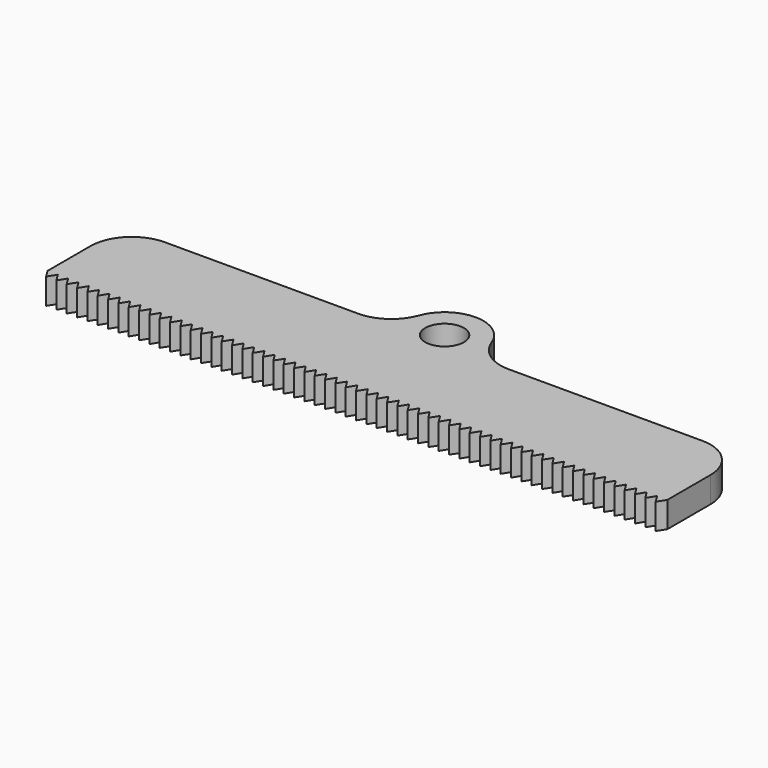
from build123d import *

# Parameters (mm, degrees)
F0_R     = 2.3749
F1_DEPTH = 3.175
F3_DEPTH = 25.4


with BuildPart() as f1:
    # F0 (on Top) → F1 (new body)
    with BuildSketch(Plane.XY):
        with BuildLine():
            Line((-38.1, -9.525), (38.1, -9.525))
            Line((38.1, -9.525), (38.1, -1.905))
            ThreePointArc((38.1, -1.905), (36.612102, 1.687102), (33.02, 3.175))
            Line((33.02, 3.175), (9.243306, 3.175))
            ThreePointArc((9.243306, 3.175), (6.333003, 4.091283), (4.472567, 6.509591))
            ThreePointArc((4.472567, 6.509591), (0, 9.635769), (-4.472567, 6.509591))
            ThreePointArc((-4.472567, 6.509591), (-6.333003, 4.091283), (-9.243306, 3.175))
            Line((-9.243306, 3.175), (-33.02, 3.175))
            ThreePointArc((-33.02, 3.175), (-36.612102, 1.687102), (-38.1, -1.905))
            Line((-38.1, -1.905), (-38.1, -9.525))
        make_face()
        with Locations((0, 4.873269)):
            Circle(F0_R, mode=Mode.SUBTRACT)
    extrude(amount=F1_DEPTH)

    # F2 (on face) → F3 (cut)
    with BuildSketch(Plane.XY.offset(3.175)):
        Polygon((-37.465, -9.525), (-38.1, -8.509), (-38.1, -14.148636), (38.1, -14.148636), (38.1, -8.509), (37.465, -9.525), (36.83, -8.509), (36.195, -9.525), (35.56, -8.509), (34.925, -9.525), (34.29, -8.509), (33.655, -9.525), (33.02, -8.509), (32.385, -9.525), (31.75, -8.509), (31.115, -9.525), (30.48, -8.509), (29.845, -9.525), (29.21, -8.509), (28.575, -9.525), (27.94, -8.509), (27.305, -9.525), (26.67, -8.509), (26.035, -9.525), (25.4, -8.509), (24.765, -9.525), (24.13, -8.509), (23.495, -9.525), (22.86, -8.509), (22.225, -9.525), (21.59, -8.509), (20.955, -9.525), (20.32, -8.509), (19.685, -9.525), (19.05, -8.509), (18.415, -9.525), (17.78, -8.509), (17.145, -9.525), (16.51, -8.509), (15.875, -9.525), (15.24, -8.509), (14.605, -9.525), (13.97, -8.509), (13.335, -9.525), (12.7, -8.509), (12.065, -9.525), (11.43, -8.509), (10.795, -9.525), (10.16, -8.509), (9.525, -9.525), (8.89, -8.509), (8.255, -9.525), (7.62, -8.509), (6.985, -9.525), (6.35, -8.509), (5.715, -9.525), (5.08, -8.509), (4.445, -9.525), (3.81, -8.509), (3.175, -9.525), (2.54, -8.509), (1.905, -9.525), (1.27, -8.509), (0.635, -9.525), (0, -8.509), (-0.635, -9.525), (-1.27, -8.509), (-1.905, -9.525), (-2.54, -8.509), (-3.175, -9.525), (-3.81, -8.509), (-4.445, -9.525), (-5.08, -8.509), (-5.715, -9.525), (-6.35, -8.509), (-6.985, -9.525), (-7.62, -8.509), (-8.255, -9.525), (-8.89, -8.509), (-9.525, -9.525), (-10.16, -8.509), (-10.795, -9.525), (-11.43, -8.509), (-12.065, -9.525), (-12.7, -8.509), (-13.335, -9.525), (-13.97, -8.509), (-14.605, -9.525), (-15.24, -8.509), (-15.875, -9.525), (-16.51, -8.509), (-17.145, -9.525), (-17.78, -8.509), (-18.415, -9.525), (-19.05, -8.509), (-19.685, -9.525), (-20.32, -8.509), (-20.955, -9.525), (-21.59, -8.509), (-22.225, -9.525), (-22.86, -8.509), (-23.495, -9.525), (-24.13, -8.509), (-24.765, -9.525), (-25.4, -8.509), (-26.035, -9.525), (-26.67, -8.509), (-27.305, -9.525), (-27.94, -8.509), (-28.575, -9.525), (-29.21, -8.509), (-29.845, -9.525), (-30.48, -8.509), (-31.115, -9.525), (-31.75, -8.509), (-32.385, -9.525), (-33.02, -8.509), (-33.655, -9.525), (-34.29, -8.509), (-34.925, -9.525), (-35.56, -8.509), (-36.195, -9.525), (-36.83, -8.509), align=None)
    extrude(amount=-F3_DEPTH, mode=Mode.SUBTRACT)


solid = f1.part
